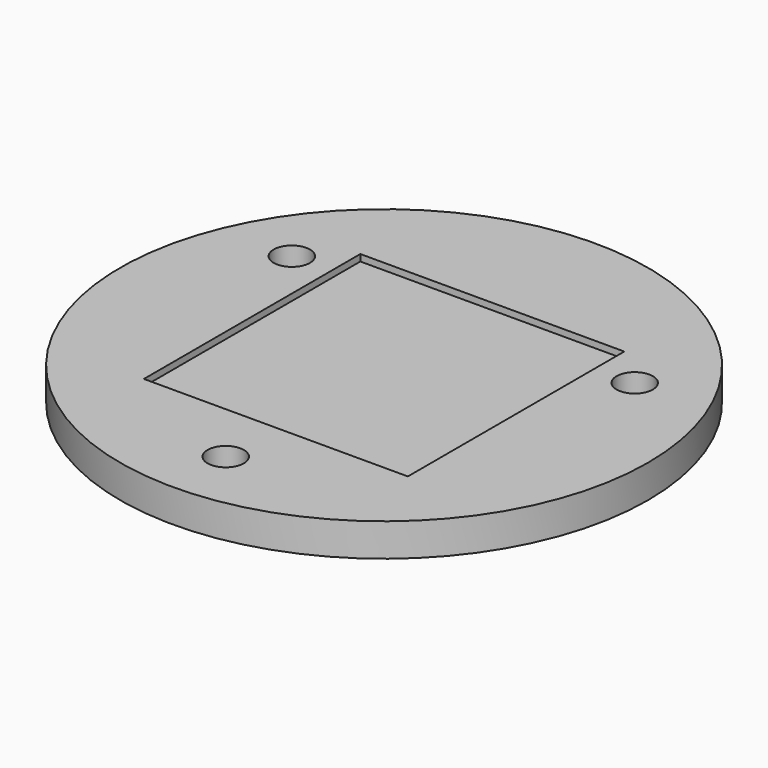
from build123d import *

# Parameters (mm, degrees)
F0_R     = 40
F1_DEPTH = 5
F2_W     = 40
F2_H     = 41
F3_DEPTH = 1
F5_D     = 5.5
F6_DEPTH = 1


with BuildPart() as f1:
    # F0 (on Top) → F1 (new body)
    with BuildSketch(Plane.XY):
        Circle(F0_R)
    extrude(amount=F1_DEPTH)

    # F2 (on face) → F3 (cut)
    with BuildSketch(Plane.XY.offset(5)):
        Rectangle(F2_W, F2_H)
    extrude(amount=-F3_DEPTH, mode=Mode.SUBTRACT)

    # F5 (through all)
    with Locations(Plane(origin=(0, 0, 0), x_dir=(1, 0, 0), z_dir=(0, 0, -1))):
        with Locations((0, 30), (25.980762, -15), (-25.980762, -15)):
            Hole(F5_D / 2)

    # F2 (on face) → F6 (cut)
    with BuildSketch(Plane.XY.offset(5)):
        Rectangle(F2_W, F2_H)
    extrude(amount=-F6_DEPTH, mode=Mode.SUBTRACT)


solid = f1.part
